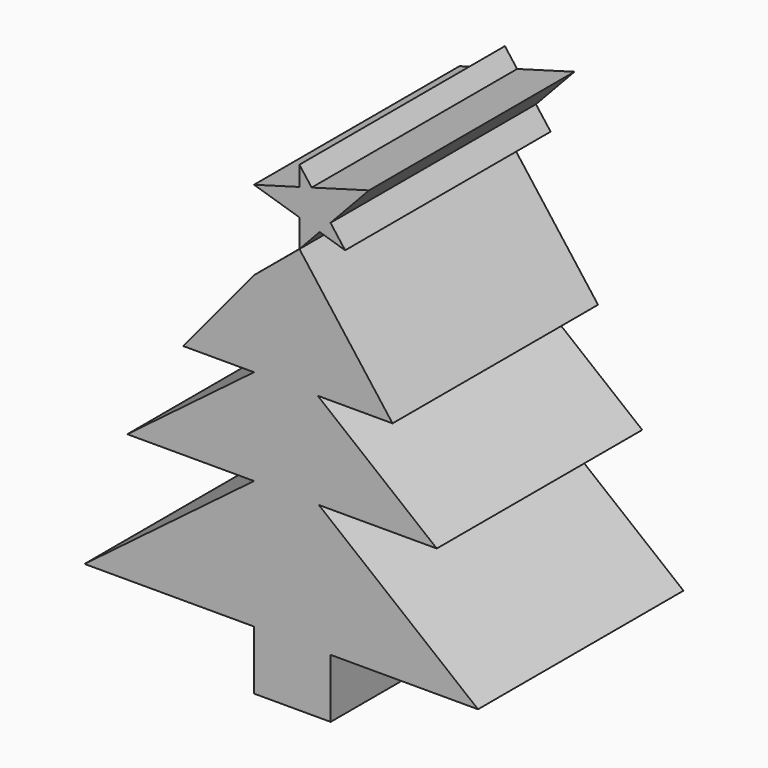
from build123d import *

# Parameters (mm, degrees)
F0_W     = 7.5783608481
F0_H     = 5.838687748
F1_DEPTH = 25.4


with BuildPart() as f1:
    # F0 (on Front) → F1 (new body)
    with BuildSketch(Plane.XZ):
        with Locations((3.7891804241, -15.5893456041)):
            Rectangle(F0_W, F0_H)
        Polygon((4.4913187886, 21.6558751002), (0, 17.9257374257), (-6.9954092614, 9.472951293), (0, 9.472951293), (-12.5334421173, 0), (0, 0), (-16.7633853905, -12.6700017301), (0, -12.6700017301), (7.5783608481, -12.6700017301), (22.1521314234, -12.6700017301), (6.4124595374, 0), (18.0714763701, 0), (6.3034317936, 9.472951293), (13.699343428, 9.472951293), align=None)
    extrude(amount=F1_DEPTH)


with BuildPart() as f1b:
    # F0 (on Front) → F1, piece 2 (new body)
    with BuildSketch(Plane.XZ):
        Polygon((5.69960051, 27.403154551), (7.5631482522, 24.9375377609), (11.3675408065, 29.0018040687), align=None)
        Polygon((7.5631482522, 24.9375377609), (6.4939594152, 23.7953138435), (9.0128724037, 23.0194413645), align=None)
        Polygon((4.4913187886, 27.0623572084), (4.4913187886, 24.4121647449), (6.4939594152, 23.7953138435), (7.5631482522, 24.9375377609), (5.69960051, 27.403154551), align=None)
        Polygon((4.4913187886, 24.4121647449), (4.4913187886, 21.6558751002), (6.4939594152, 23.7953138435), align=None)
        Polygon((0, 25.7955752313), (4.4913187886, 24.4121647449), (4.4913187886, 27.0623572084), align=None)
        Polygon((4.4913187886, 29.0018040687), (4.4913187886, 27.0623572084), (5.69960051, 27.403154551), align=None)
    extrude(amount=F1_DEPTH)


solid = Compound([f1.part, f1b.part])
